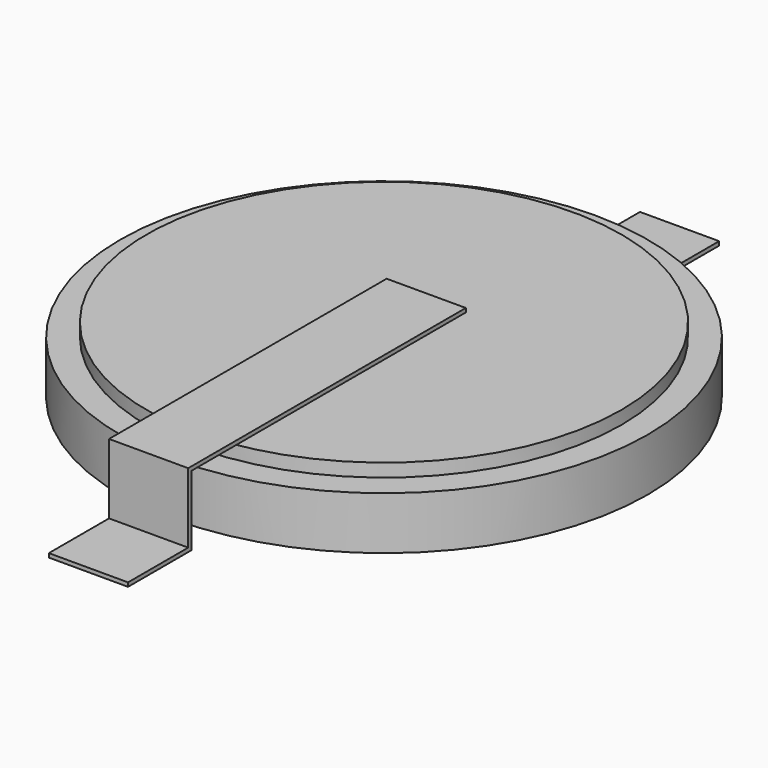
from build123d import *

# Parameters (mm, degrees)
SKETCH_R                = 10
PAD_DEPTH               = 2
SKETCH001_R             = 9
PAD001_DEPTH            = 0.5
SKETCH003_W             = 16
SKETCH003_H             = 0.15
PAD003_DEPTH            = 1.5
BODY001_PLACEMENT_ANGLE = 180


with BuildPart() as battery:
    # Sketch (on XY_Plane of Origin) → Pad (new body)
    with BuildSketch(Plane.XY.offset(0.15)):
        Circle(SKETCH_R)
    extrude(amount=PAD_DEPTH)

    # Sketch001 (on Face3 of Pad) → Pad001 (join)
    with BuildSketch(Plane.XY.offset(2.15)):
        Circle(SKETCH001_R)
    extrude(amount=PAD001_DEPTH)


with BuildPart() as tabs:
    # Sketch003 (on YZ_Plane of Origin) → Pad003 (new body, symmetric)
    with BuildSketch(Plane.YZ):
        Polygon((-2, 2.8), (-2, 2.65), (11, 2.65), (11, 0), (14, 0), (14, 0.15), (11.15, 0.15), (11.15, 2.8), align=None)
        with Locations((-6, 0.075)):
            Rectangle(SKETCH003_W, SKETCH003_H)
    extrude(amount=PAD003_DEPTH, both=True)


with BuildPart() as tabs_1:
    # Body001 placement: moved
    add(tabs.part.rotate(Axis((0, 0, 0), (0, 0, 1)), BODY001_PLACEMENT_ANGLE))


solid = Compound([battery.part, tabs_1.part])
